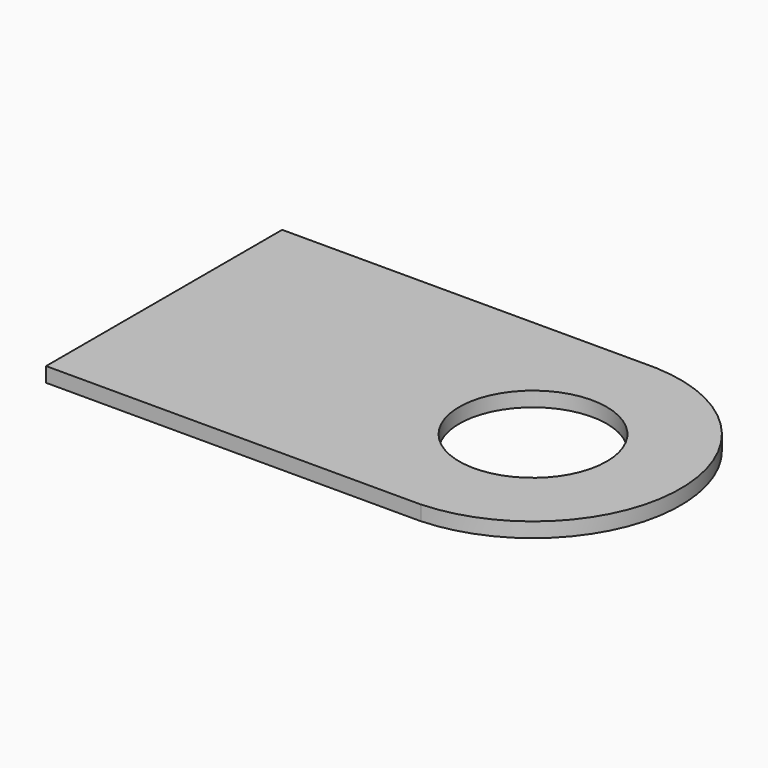
from build123d import *

# Parameters (mm, degrees)
CYLINDER047_R     = 0.5
CYLINDER047_DEPTH = 0.1
BOX018_W          = 2.54
BOX018_H          = 2
BOX018_DEPTH      = 0.1
CYLINDER046_R     = 0.5
CYLINDER046_DEPTH = 0.1
CYLINDER045_R     = 1
CYLINDER045_DEPTH = 0.1


with BuildPart() as cylinder047:
    # Cylinder047 → Cylinder047 (new body)
    with BuildSketch(Plane.XY.offset(1)):
        Circle(CYLINDER047_R)
    extrude(amount=CYLINDER047_DEPTH)


with BuildPart() as cut032:
    # Box018 → Box018 (new body)
    with BuildSketch(Plane(origin=(-2.5, -1, 1), x_dir=(1, 0, 0), z_dir=(0, 0, 1))):
        with Locations((1.27, 1)):
            Rectangle(BOX018_W, BOX018_H)
    extrude(amount=BOX018_DEPTH)

    # Cut032: cut Cylinder047
    add(cylinder047.part, mode=Mode.SUBTRACT)


with BuildPart() as cylinder046:
    # Cylinder046 → Cylinder046 (new body)
    with BuildSketch(Plane.XY.offset(1)):
        Circle(CYLINDER046_R)
    extrude(amount=CYLINDER046_DEPTH)


with BuildPart() as fusion015:
    # Cylinder045 → Cylinder045 (new body)
    with BuildSketch(Plane.XY.offset(1)):
        Circle(CYLINDER045_R)
    extrude(amount=CYLINDER045_DEPTH)

    # Cut031: cut Cylinder046
    add(cylinder046.part, mode=Mode.SUBTRACT)

    # Fusion015: union Cut032
    add(cut032.part)


with BuildPart() as fusion015_1:
    # Fusion015 placement: moved
    add(fusion015.part.moved(Location((0, -38.1, 5.5))))


solid = fusion015_1.part
